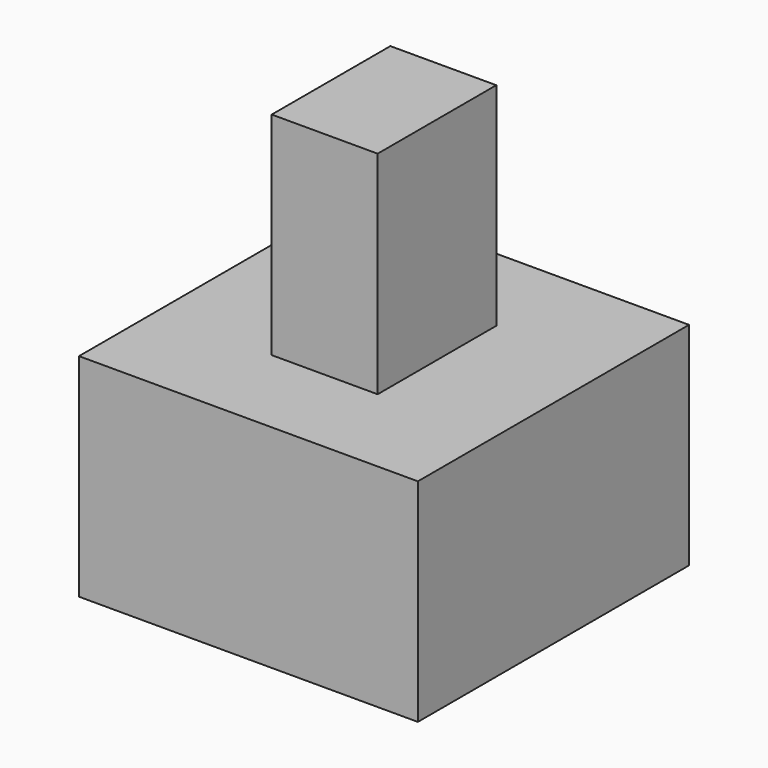
from build123d import *

# Parameters (mm, degrees)
BOX002_W     = 10
BOX002_H     = 10
BOX002_DEPTH = 8
BOX001_W     = 5
BOX001_H     = 7
BOX001_DEPTH = 10
BOX_W        = 16
BOX_H        = 16
BOX_DEPTH    = 10


with BuildPart() as cube002:
    # Box002 → Box002 (new body)
    with BuildSketch(Plane(origin=(-5, -5, 0), x_dir=(1, 0, 0), z_dir=(0, 0, 1))):
        with Locations((5, 5)):
            Rectangle(BOX002_W, BOX002_H)
    extrude(amount=BOX002_DEPTH)


with BuildPart() as cube001:
    # Box001 → Box001 (new body)
    with BuildSketch(Plane(origin=(-2.5, -3.5, 10), x_dir=(1, 0, 0), z_dir=(0, 0, 1))):
        with Locations((2.5, 3.5)):
            Rectangle(BOX001_W, BOX001_H)
    extrude(amount=BOX001_DEPTH)


with BuildPart() as cut:
    # Box → Box (new body)
    with BuildSketch(Plane(origin=(-8, -8, 0), x_dir=(1, 0, 0), z_dir=(0, 0, 1))):
        with Locations((8, 8)):
            Rectangle(BOX_W, BOX_H)
    extrude(amount=BOX_DEPTH)

    # Fusion: union Cube001
    add(cube001.part)

    # Cut: cut Cube002
    add(cube002.part, mode=Mode.SUBTRACT)


solid = cut.part
